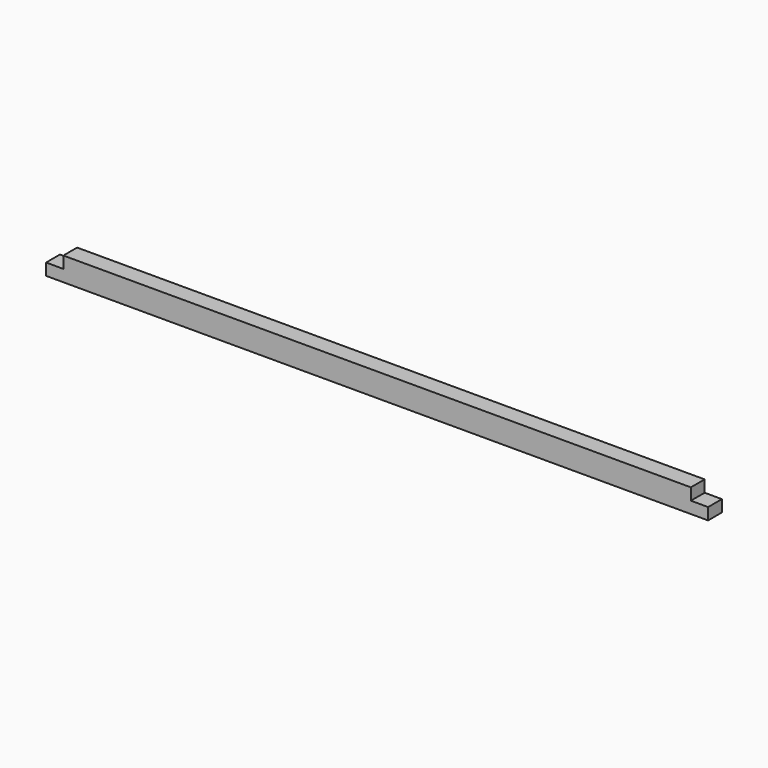
from build123d import *

# Parameters (mm, degrees)
F0_W     = 139.7
F0_H     = 95.25
F1_DEPTH = 139.7


with BuildPart() as f1:
    # F0 (on Front) → F1 (new body)
    with BuildSketch(Plane.XZ):
        Polygon((181.143059, -21.294381), (181.143059, -116.544381), (2860.843059, -116.544381), (5540.543059, -116.544381), (5540.543059, -21.294381), (5400.843059, -21.294381), (5400.843059, 73.955619), (2930.693059, 73.955619), (2930.693059, -21.294381), (2790.993059, -21.294381), (2790.993059, 73.955619), (320.843059, 73.955619), (320.843059, -21.294381), align=None)
        with Locations((2860.843059, 26.330619)):
            Rectangle(F0_W, F0_H)
    extrude(amount=F1_DEPTH)


solid = f1.part
